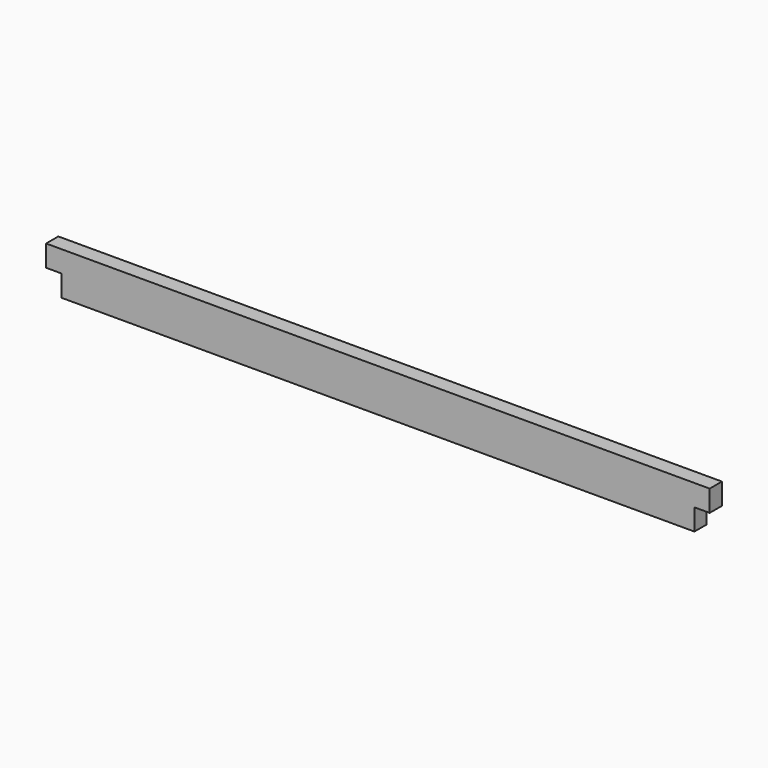
from build123d import *

# Parameters (mm, degrees)
F0_W     = 688.975
F0_H     = 44.45
F1_DEPTH = 15.875
F2_W     = 15.875
F2_H     = 22.225
F3_DEPTH = 15.876


with BuildPart() as f1:
    # F0 (on Front) → F1 (new body)
    with BuildSketch(Plane.XZ):
        Rectangle(F0_W, F0_H)
    extrude(amount=F1_DEPTH)

    # F2 (on face) → F3 (cut, through all)
    with BuildSketch(Plane.XZ):
        with Locations((-336.55, -11.1125)):
            Rectangle(F2_W, F2_H)
        with Locations((336.55, -11.1125)):
            Rectangle(F2_W, F2_H)
    extrude(amount=F3_DEPTH, mode=Mode.SUBTRACT)


solid = f1.part
